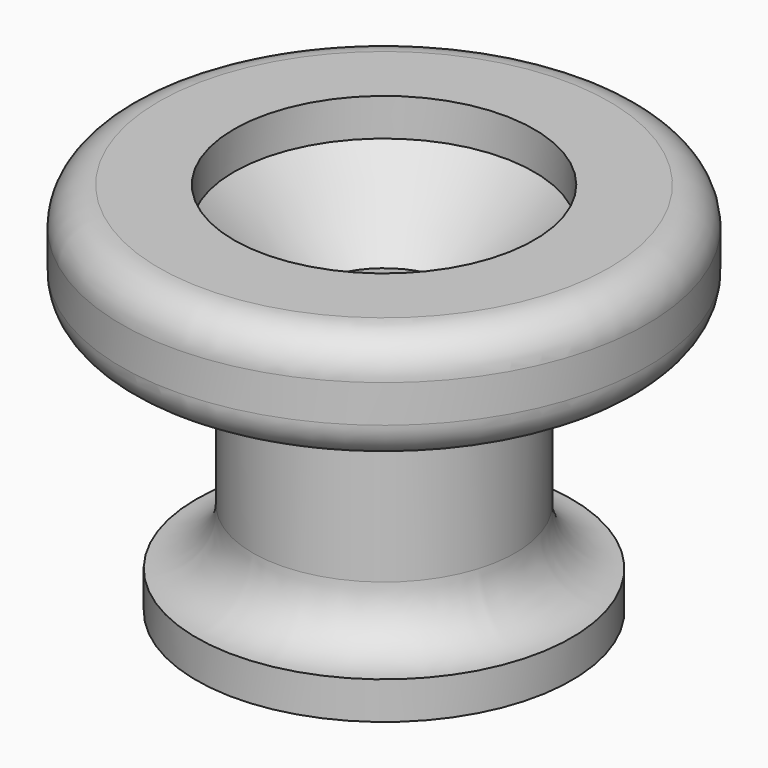
from build123d import *


with BuildPart() as f1:
    # F0 (on Front) → F1 (revolve)
    with BuildSketch(Plane.XZ):
        with BuildLine():
            Line((-5, 0), (-2, 0))
            Line((-2, 0), (-2, 7))
            Line((-2, 7), (-4, 9))
            Line((-4, 9), (-4, 10))
            Line((-4, 10), (-6, 10))
            ThreePointArc((-6, 10), (-6.707107, 9.707107), (-7, 9))
            Line((-7, 9), (-7, 8))
            ThreePointArc((-7, 8), (-6.707107, 7.292893), (-6, 7))
            Line((-6, 7), (-4, 7))
            ThreePointArc((-4, 7), (-3.646447, 6.853553), (-3.5, 6.5))
            Line((-3.5, 6.5), (-3.5, 2.5))
            ThreePointArc((-3.5, 2.5), (-3.93934, 1.43934), (-5, 1))
            Line((-5, 1), (-5, 0))
        make_face()
    revolve(axis=Axis((0, 0, -0.231959), (0, 0, -1)))


solid = f1.part
